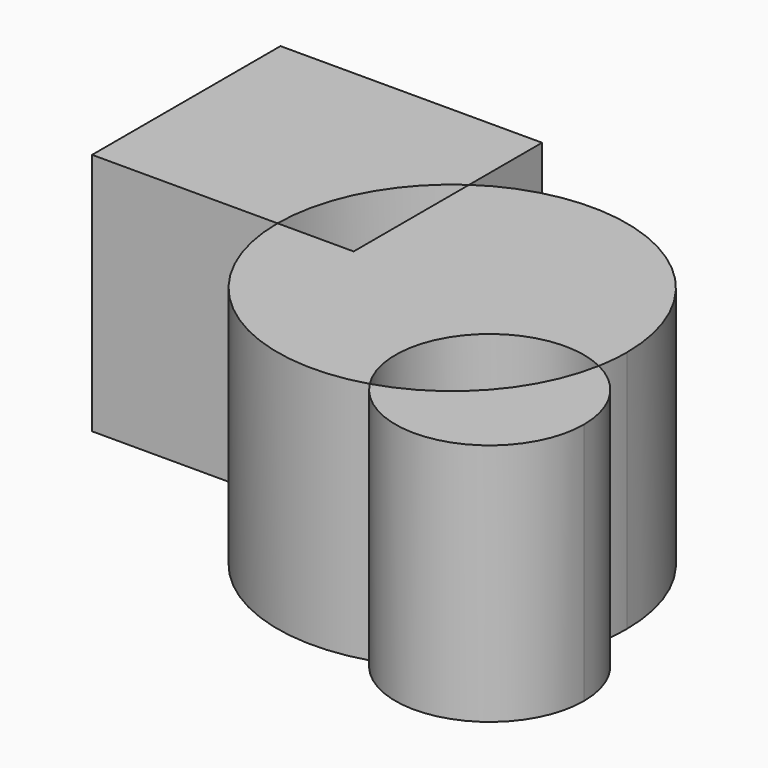
from build123d import *

# Parameters (mm, degrees)
F1_DEPTH = 42.926


with BuildPart() as f1:
    # F0 (on Top) → F1 (new body)
    with BuildSketch(Plane.XY):
        with BuildLine():
            Line((-46.1203753948, 0), (-13.4282783921, 0))
            ThreePointArc((-13.4282783921, 0), (-9.8651513224, 14.3819342766), (0, 25.437009918))
            Line((0, 25.437009918), (0, 41.5209047496))
            Line((0, 41.5209047496), (-46.1203753948, 41.5209047496))
            Line((-46.1203753948, 41.5209047496), (-46.1203753948, 0))
        make_face()
    extrude(amount=F1_DEPTH)


with BuildPart() as f1b:
    # F0 (on Top) → F1, piece 2 (new body)
    with BuildSketch(Plane.XY):
        with BuildLine():
            ThreePointArc((47.6786313345, -5.5625600968), (40.3809064348, -20.492228507), (26.3899580388, -29.4591204174))
            ThreePointArc((26.3899580388, -29.4591204174), (45.052779202, -36.4398111576), (56.9987218011, -20.492228507))
            ThreePointArc((56.9987218011, -20.492228507), (54.477431406, -11.6922415021), (47.6786313345, -5.5625600968))
        make_face()
    extrude(amount=F1_DEPTH)


with BuildPart() as f1c:
    # F0 (on Top) → F1, piece 3 (new body)
    with BuildSketch(Plane.XY):
        with BuildLine():
            Line((0, 25.437009918), (0, 0))
            Line((0, 0), (-13.4282783921, 0))
            ThreePointArc((-13.4282783921, 0), (-0.9441929, -24.7655593932), (26.3899580388, -29.4591204174))
            ThreePointArc((26.3899580388, -29.4591204174), (27.9727958219, -9.4382437699), (47.6786313345, -5.5625600968))
            ThreePointArc((47.6786313345, -5.5625600968), (48.0581399248, -2.792779751), (48.1849910076, 0))
            ThreePointArc((48.1849910076, 0), (31.7602905844, 27.2435076301), (0, 25.437009918))
        make_face()
    extrude(amount=F1_DEPTH)


solid = Compound([f1.part, f1b.part, f1c.part])
